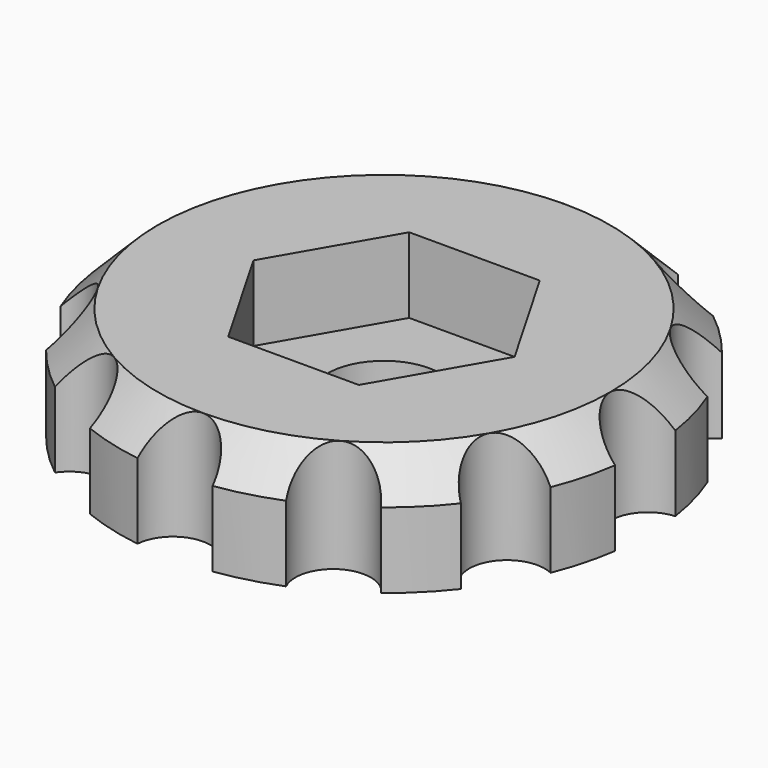
from build123d import *

# Parameters (mm, degrees)
CYLINDER028_R     = 1
CYLINDER028_DEPTH = 10
ARRAY002_COUNT    = 12
CYLINDER027_R     = 1.5
CYLINDER027_DEPTH = 10
CYLINDER026_R     = 7
CYLINDER026_DEPTH = 3
POCKET009_DEPTH   = 2
CHAMFER010_SIZE   = 1


with BuildPart() as array002:
    # Cylinder028 → Cylinder028 (new body)
    with BuildSketch(Plane(origin=(7, 0, -2), x_dir=(1, 0, 0), z_dir=(0, 0, 1))):
        Circle(CYLINDER028_R)
    extrude(amount=CYLINDER028_DEPTH)

    # Array002: Array002 ×12 about axis
    array002_axis = Axis((0, 0, 0), (0, 0, 1))


with BuildPart() as array002_1:
    add(array002.part)
    for i in range(1, ARRAY002_COUNT):
        add(array002.part.rotate(array002_axis, i * 360 / ARRAY002_COUNT))


with BuildPart() as cilindro019:
    # Cylinder027 → Cylinder027 (new body)
    with BuildSketch(Plane.XY.offset(-2)):
        Circle(CYLINDER027_R)
    extrude(amount=CYLINDER027_DEPTH)


with BuildPart() as cut017:
    # Cylinder026 → Cylinder026 (new body)
    with BuildSketch(Plane.XY):
        Circle(CYLINDER026_R)
    extrude(amount=CYLINDER026_DEPTH)

    # Sketch004 → Pocket009 (cut)
    with BuildSketch(Plane.XY.offset(3)):
        Polygon((-3.464093, 0), (-1.732049, 3), (1.732049, 3), (3.464093, 0), (1.732049, -3), (-1.732049, -3), align=None)
    extrude(amount=-POCKET009_DEPTH, mode=Mode.SUBTRACT)

    # Chamfer010
    chamfer010_edges = [cut017.edges().sort_by_distance(p)[0] for p in [
        (-7, 0, 3),
    ]]
    chamfer(chamfer010_edges, length=CHAMFER010_SIZE)

    # Cut016: cut Cilindro019
    add(cilindro019.part, mode=Mode.SUBTRACT)

    # Cut017: cut Array002
    add(array002_1.part, mode=Mode.SUBTRACT)


with BuildPart() as cut017_1:
    # Cut017 placement: moved
    add(cut017.part.moved(Location((113, 150, 157))))


solid = cut017_1.part
